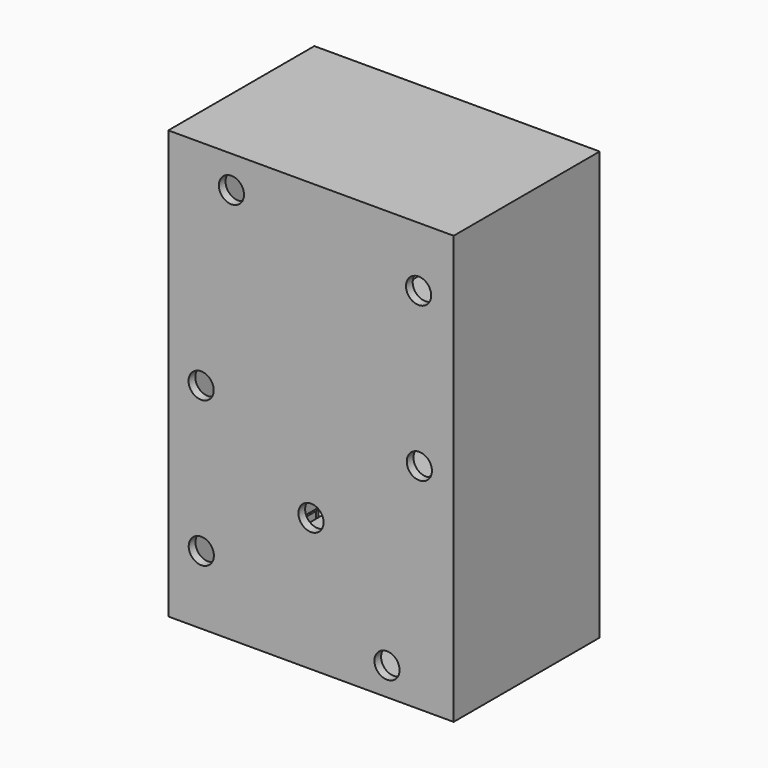
from build123d import *

# Parameters (mm, degrees)
SKETCH287_W     = 68
SKETCH287_H     = 102
PAD198_DEPTH    = 43.5
SKETCH288_W     = 64
SKETCH288_H     = 98
POCKET042_DEPTH = 41.5
SKETCH289_W     = 66
SKETCH289_H     = 100
POCKET043_DEPTH = 2
SKETCH290_W     = 2
SKETCH290_H     = 9
SKETCH290_H_2   = 12
SKETCH290_H_3   = 14
SKETCH290_H_4   = 10
SKETCH290_W_2   = 10
SKETCH290_H_5   = 2
PAD199_DEPTH    = 20
SKETCH291_R     = 3
POCKET044_DEPTH = 5


with BuildPart() as part:
    # Sketch287 → Pad198 (new body)
    with BuildSketch(Plane.XZ):
        Rectangle(SKETCH287_W, SKETCH287_H)
    extrude(amount=-PAD198_DEPTH)

    # Sketch288 (on Face6 of Pad198) → Pocket042 (cut)
    with BuildSketch(Plane(origin=(0, 43.5, 0), x_dir=(1, 0, 0), z_dir=(0, 1, 0))):
        Rectangle(SKETCH288_W, SKETCH288_H)
    extrude(amount=-POCKET042_DEPTH, mode=Mode.SUBTRACT)

    # Sketch289 (on Face5 of Pocket042) → Pocket043 (cut)
    with BuildSketch(Plane(origin=(0, 43.5, 0), x_dir=(1, 0, 0), z_dir=(0, 1, 0))):
        Rectangle(SKETCH289_W, SKETCH289_H)
    extrude(amount=-POCKET043_DEPTH, mode=Mode.SUBTRACT)

    # Sketch290 (on Face16 of Pocket043) → Pad199 (join)
    with BuildSketch(Plane(origin=(0, 2, 0), x_dir=(1, 0, 0), z_dir=(0, 1, 0))):
        with Locations((28.6, 20)):
            Rectangle(SKETCH290_W, SKETCH290_H)
        with Locations((28.6, -15)):
            Rectangle(SKETCH290_W, SKETCH290_H)
        with Locations((9.4, 19)):
            Rectangle(SKETCH290_W, SKETCH290_H_2)
        with Locations((9.4, -17.5)):
            Rectangle(SKETCH290_W, SKETCH290_H_3)
        with Locations((11.6, 1)):
            Rectangle(SKETCH290_W, SKETCH290_H_4)
        with Locations((11.6, 38)):
            Rectangle(SKETCH290_W, SKETCH290_H_4)
        Polygon((0, 47.1), (2, 47.1), (2, 45.1), (0, 45.1), (-7, 45.1), (-7, 47.1), align=None)
        Polygon((0, 27.9), (7, 27.9), (7, 25.9), (0, 25.9), (-7, 25.9), (-7, 27.9), align=None)
        Polygon((0, 12.1), (2, 12.1), (2, 10.1), (0, 10.1), (-7, 10.1), (-7, 12.1), align=None)
        Polygon((0, -7.1), (7, -7.1), (7, -9.1), (0, -9.1), (-7, -9.1), (-7, -7.1), align=None)
        Polygon((0, -25.9), (7, -25.9), (7, -27.9), (0, -27.9), (-7, -27.9), (-7, -25.9), align=None)
        with Locations((11.6, -37)):
            Rectangle(SKETCH290_W, SKETCH290_H_4)
        Polygon((0, -45.1), (7, -45.1), (7, -47.1), (0, -47.1), (-2, -47.1), (-2, -45.1), align=None)
        with Locations((19, 5.9)):
            Rectangle(SKETCH290_W_2, SKETCH290_H_5)
        with Locations((19, -5.9)):
            Rectangle(SKETCH290_W_2, SKETCH290_H_5)
        with Locations((19, -29.1)):
            Rectangle(SKETCH290_W_2, SKETCH290_H_5)
        with Locations((19, 29.1)):
            Rectangle(SKETCH290_W_2, SKETCH290_H_5)
        with Locations((-28.6, 15)):
            Rectangle(SKETCH290_W, SKETCH290_H)
        with Locations((-28.6, -20)):
            Rectangle(SKETCH290_W, SKETCH290_H)
        with Locations((-9.4, 19)):
            Rectangle(SKETCH290_W, SKETCH290_H_2)
        with Locations((-9.4, -17.5)):
            Rectangle(SKETCH290_W, SKETCH290_H_3)
        with Locations((-11.6, 1)):
            Rectangle(SKETCH290_W, SKETCH290_H_4)
        with Locations((-11.6, 38)):
            Rectangle(SKETCH290_W, SKETCH290_H_4)
        with Locations((-11.6, -37)):
            Rectangle(SKETCH290_W, SKETCH290_H_4)
        with Locations((-19, 5.9)):
            Rectangle(SKETCH290_W_2, SKETCH290_H_5)
        with Locations((-19, -5.9)):
            Rectangle(SKETCH290_W_2, SKETCH290_H_5)
        with Locations((-19, -29.1)):
            Rectangle(SKETCH290_W_2, SKETCH290_H_5)
        with Locations((-19, 29.1)):
            Rectangle(SKETCH290_W_2, SKETCH290_H_5)
    extrude(amount=PAD199_DEPTH)

    # Sketch291 (on Face16 of Pad199) → Pocket044 (cut)
    with BuildSketch(Plane(origin=(0, 2, 0), x_dir=(1, 0, 0), z_dir=(0, 1, 0))):
        with Locations((-26.14077, 34.68518)):
            Circle(SKETCH291_R)
        with Locations((18.10867, 44.321499)):
            Circle(SKETCH291_R)
        with Locations((25.819803, 0)):
            Circle(SKETCH291_R)
        with Locations((25.639233, -36.743561)):
            Circle(SKETCH291_R)
        with Locations((-18.966691, -43.366471)):
            Circle(SKETCH291_R)
        with Locations((-26.180906, 0)):
            Circle(SKETCH291_R)
        with Locations((0, 19.229425)):
            Circle(SKETCH291_R)
    extrude(amount=-POCKET044_DEPTH, mode=Mode.SUBTRACT)


with BuildPart() as part_1:
    # Body062 placement: moved
    add(part.part.moved(Location((0, -31.5, 0))))


solid = part_1.part
